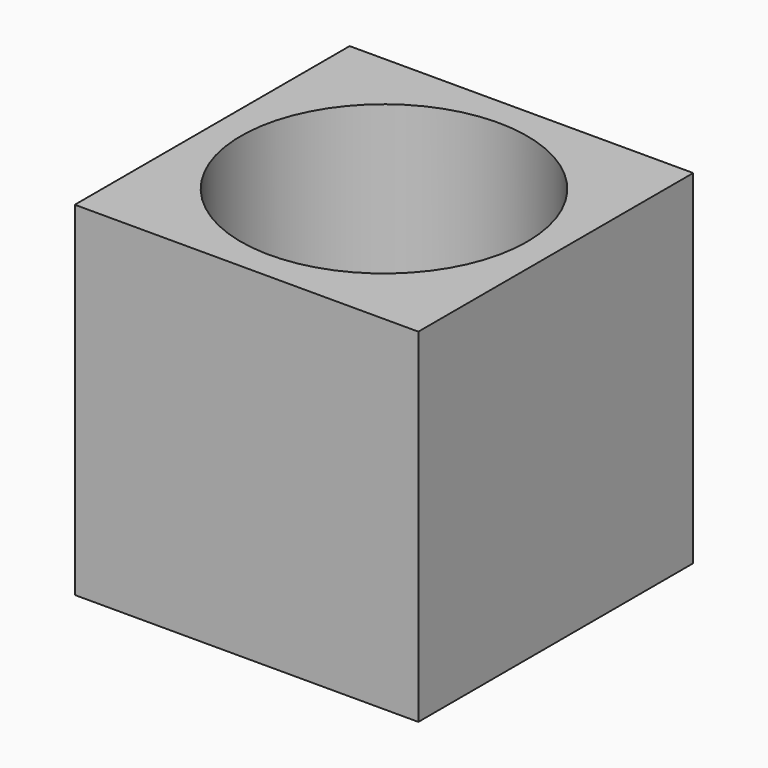
from build123d import *

# Parameters (mm, degrees)
F0_W     = 152.4
F0_H     = 152.4
F1_DEPTH = 152.4
F2_R     = 63.5
F3_DEPTH = 152.401


with BuildPart() as f1:
    # F0 (on Front) → F1 (new body)
    with BuildSketch(Plane.XZ):
        Rectangle(F0_W, F0_H)
    extrude(amount=-F1_DEPTH)

    # F2 (on face) → F3 (cut, through all)
    with BuildSketch(Plane.XY.offset(76.2)):
        with Locations((0, 76.2)):
            Circle(F2_R)
    extrude(amount=-F3_DEPTH, mode=Mode.SUBTRACT)


solid = f1.part
